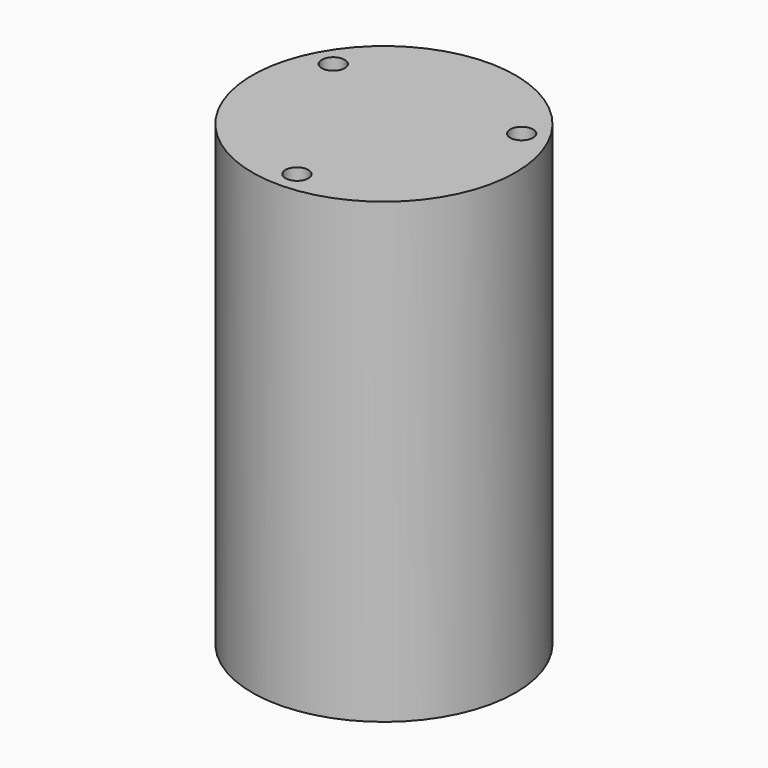
from build123d import *

# Parameters (mm, degrees)
SKETCH001_R       = 23.34615
EXTRUDE_DEPTH     = 23
CYLINDER002_R     = 3
CYLINDER002_DEPTH = 15
CYLINDER001_R     = 7.5
CYLINDER001_DEPTH = 1
CYLINDER_R        = 11.5
CYLINDER_DEPTH    = 40
SKETCH_R          = 1
POCKET_DEPTH      = 4


with BuildPart() as clone_of_extrude:
    # Sketch001 → Extrude (new body)
    with BuildSketch(Plane.XY.offset(41)):
        Circle(SKETCH001_R)
    extrude(amount=EXTRUDE_DEPTH)


with BuildPart() as cylinder002:
    # Cylinder002 → Cylinder002 (new body)
    with BuildSketch(Plane.XY.offset(42)):
        Circle(CYLINDER002_R)
    extrude(amount=CYLINDER002_DEPTH)


with BuildPart() as cylinder001:
    # Cylinder001 → Cylinder001 (new body)
    with BuildSketch(Plane.XY.offset(41)):
        Circle(CYLINDER001_R)
    extrude(amount=CYLINDER001_DEPTH)


with BuildPart() as cut:
    # Cylinder → Cylinder (new body)
    with BuildSketch(Plane.XY.offset(1)):
        Circle(CYLINDER_R)
    extrude(amount=CYLINDER_DEPTH)

    # Fusion: union Cylinder002, Cylinder001
    add(cylinder002.part)
    add(cylinder001.part)

    # Sketch → Pocket (cut)
    with BuildSketch(Plane.XY.offset(41)):
        with Locations((8.227241, 4.75)):
            Circle(SKETCH_R)
        with Locations((-8.227241, 4.75)):
            Circle(SKETCH_R)
        with Locations((0, -9.5)):
            Circle(SKETCH_R)
    extrude(amount=-POCKET_DEPTH, mode=Mode.SUBTRACT)

    # Cut: cut Clone of Extrude
    add(clone_of_extrude.part, mode=Mode.SUBTRACT)


solid = cut.part
